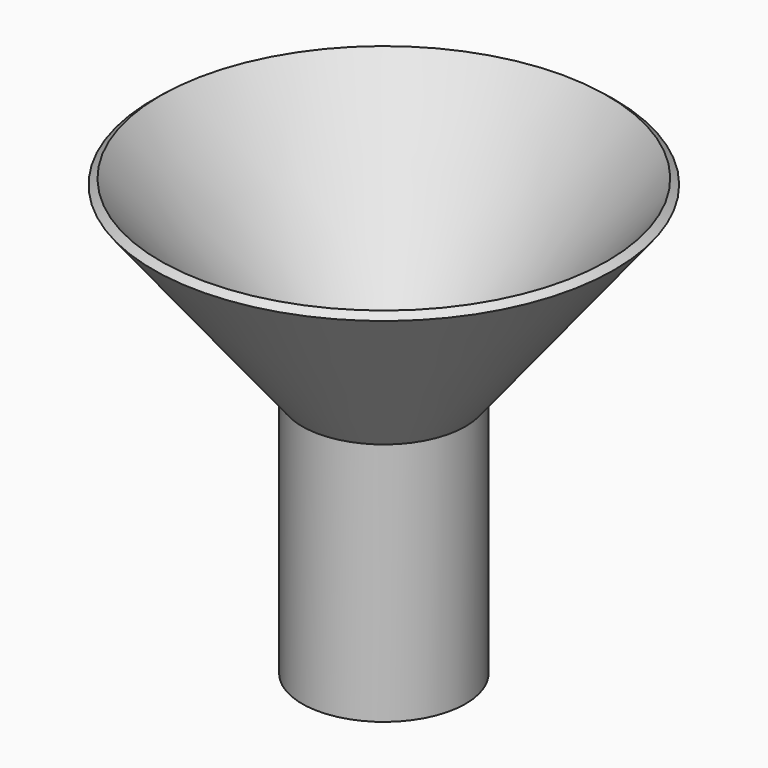
from build123d import *

# Parameters (mm, degrees)
F2_R     = 20.9909587058
F3_DEPTH = 25.4
F4_DEPTH = 25.4
F5_DEPTH = 25.4


with BuildPart() as f1:
    # F0 (on Front) → F1 (revolve)
    with BuildSketch(Plane.XZ):
        Polygon((0, -75.8221521974), (0, 0), (46.1993237782, 57.8052623537), (44.0345804445, 59.5346382788), (-3.5266100895, 0), (-25.4, 0), (-25.4, -75.8221521974), align=None)
    revolve(axis=Axis((-25.4, 0, -37.9110760987), (0, 0, 1)))

    # F2 (on face) → F3 (cut)
    with BuildSketch(Plane(origin=(0, 0, -75.8221521974), x_dir=(1, 0, 0), z_dir=(0, 0, -1))):
        with Locations((-25.4, 0)):
            Circle(F2_R)
    extrude(amount=-F3_DEPTH, mode=Mode.SUBTRACT)

    # F4 (cut): a face of the model
    f4_faces = [f1.faces().sort_by_distance(p)[0] for p in [
        (-25.4, 0, 0),
    ]]
    extrude(f4_faces, amount=-F4_DEPTH, mode=Mode.SUBTRACT)

    # F5 (cut): a face of the model
    f5_faces = [f1.faces().sort_by_distance(p)[0] for p in [
        (-25.4, 0, -25.4),
    ]]
    extrude(f5_faces, amount=-F5_DEPTH, mode=Mode.SUBTRACT)


solid = f1.part
